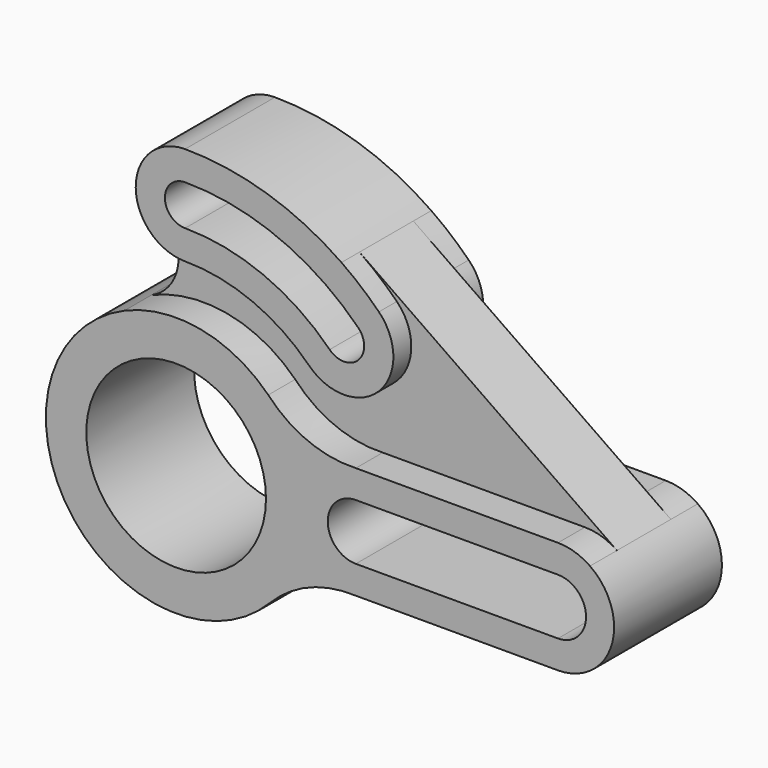
from build123d import *

# Parameters (mm, degrees)
F0_R     = 40
F1_DEPTH = 30
F2_DEPTH = 15
F3_DEPTH = 25


with BuildPart() as f1:
    # F0 (on Front) → F1 (new body, symmetric)
    with BuildSketch(Plane.XZ):
        with BuildLine():
            ThreePointArc((80, 25), (58.736468, 28.697259), (41.012193, 41.012193))
            ThreePointArc((41.012193, 41.012193), (10.882045, 56.970002), (-23.008546, 53.241026))
            ThreePointArc((-23.008546, 53.241026), (-47.67685, -33.029047), (41.759702, -40.250805))
            ThreePointArc((41.759702, -40.250805), (59.237365, -28.506986), (80, -25))
            Line((80, -25), (170, -25))
            ThreePointArc((170, -25), (193.856579, -7.474199), (184.264706, 20.530908))
            ThreePointArc((184.264706, 20.530908), (177.474199, 23.856579), (170, 25))
            Line((170, 25), (80, 25))
        make_face()
        Circle(F0_R, mode=Mode.SUBTRACT)
        with BuildLine():
            ThreePointArc((80, -12.5), (67.5, 0), (80, 12.5))
            Line((80, 12.5), (170, 12.5))
            ThreePointArc((170, 12.5), (182.5, 0), (170, -12.5))
            Line((170, -12.5), (80, -12.5))
        make_face(mode=Mode.SUBTRACT)
    extrude(amount=F1_DEPTH, both=True)

    # F0 (on Front) → F2 (join, symmetric)
    with BuildSketch(Plane.XZ):
        with BuildLine():
            ThreePointArc((-23.008546, 53.241026), (10.882045, 56.970002), (41.012193, 41.012193))
            ThreePointArc((41.012193, 41.012193), (58.736468, 28.697259), (80, 25))
            Line((80, 25), (170, 25))
            ThreePointArc((170, 25), (177.474199, 23.856579), (184.264706, 20.530908))
            Line((184.264706, 20.530908), (69.611765, 100.190829))
            ThreePointArc((69.611765, 100.190829), (78.249713, 93.60012), (86.267027, 86.267027))
            ThreePointArc((86.267027, 86.267027), (86.267027, 55.154329), (55.154329, 55.154329))
            ThreePointArc((55.154329, 55.154329), (29.849308, 72.062604), (0, 78))
            ThreePointArc((0, 78), (-8.852226, 79.859541), (-16.207991, 85.12381))
            ThreePointArc((-16.207991, 85.12381), (-11.382532, 67.427879), (-23.008546, 53.241026))
        make_face()
    extrude(amount=F2_DEPTH, both=True)

    # F0 (on Front) → F3 (join, symmetric)
    with BuildSketch(Plane.XZ):
        with BuildLine():
            ThreePointArc((0, 122), (-20.140459, 108.852226), (-16.207991, 85.12381))
            ThreePointArc((-16.207991, 85.12381), (-8.852226, 79.859541), (0, 78))
            ThreePointArc((0, 78), (29.849308, 72.062604), (55.154329, 55.154329))
            ThreePointArc((55.154329, 55.154329), (86.267027, 55.154329), (86.267027, 86.267027))
            ThreePointArc((86.267027, 86.267027), (78.249713, 93.60012), (69.611765, 100.190829))
            ThreePointArc((69.611765, 100.190829), (36.474093, 116.420104), (0, 122))
        make_face()
        with BuildLine():
            ThreePointArc((0, 109), (41.712494, 100.702869), (77.074639, 77.074639))
            ThreePointArc((77.074639, 77.074639), (77.074639, 64.346717), (64.346717, 64.346717))
            ThreePointArc((64.346717, 64.346717), (34.824192, 84.073037), (0, 91))
            ThreePointArc((0, 91), (-9, 100), (0, 109))
        make_face(mode=Mode.SUBTRACT)
    extrude(amount=F3_DEPTH, both=True)


solid = f1.part
